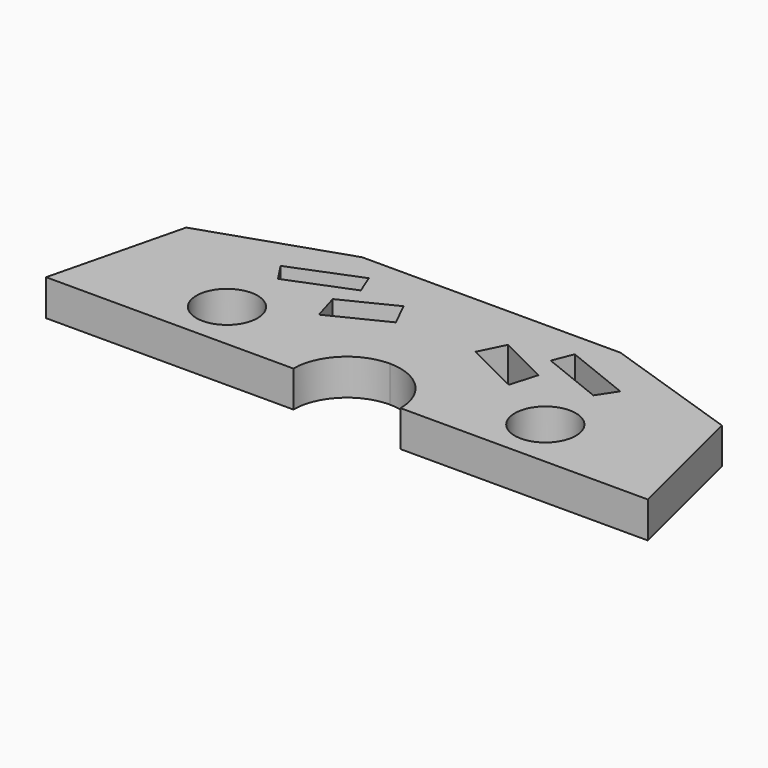
from build123d import *

# Parameters (mm, degrees)
F0_R     = 5.076544
F1_DEPTH = 6


with BuildPart() as f1:
    # F0 (on Top) → F1 (new body)
    with BuildSketch(Plane.XY):
        with BuildLine():
            Line((-44.515785, 22.257892), (-50, 0))
            Line((-50, 0), (-8.910192, 0))
            ThreePointArc((-8.910192, 0), (-6.300457, 6.300457), (0, 8.910192))
            Line((0, 8.910192), (0, 30))
            Line((0, 30), (-21.467002, 30))
            Line((-21.467002, 30), (-44.515785, 22.257892))
        make_face()
        with Locations((-26.452582, 8.150078)):
            Circle(F0_R, mode=Mode.SUBTRACT)
        Polygon((-15.777027, 13.901668), (-17.111471, 18.434501), (-8.677383, 22.606559), (-6.613608, 18.434501), align=None, mode=Mode.SUBTRACT)
        Polygon((-26.207167, 18.434501), (-28.231841, 21.494519), (-17.111471, 25.942668), (-15.777027, 22.606559), align=None, mode=Mode.SUBTRACT)
        with BuildLine():
            Line((0, 30), (0, 8.910192))
            ThreePointArc((0, 8.910192), (6.300457, 6.300457), (8.910192, 0))
            Line((8.910192, 0), (50, 0))
            Line((50, 0), (44.515785, 22.257892))
            Line((44.515785, 22.257892), (21.467002, 30))
            Line((21.467002, 30), (0, 30))
        make_face()
        with Locations((26.452582, 8.150078)):
            Circle(F0_R, mode=Mode.SUBTRACT)
        Polygon((17.111471, 18.434501), (15.777027, 13.901668), (6.613608, 18.434501), (8.677383, 22.606559), align=None, mode=Mode.SUBTRACT)
        Polygon((17.111471, 25.942668), (28.231841, 21.494519), (26.207167, 18.434501), (15.777027, 22.606559), align=None, mode=Mode.SUBTRACT)
    extrude(amount=F1_DEPTH)


solid = f1.part
